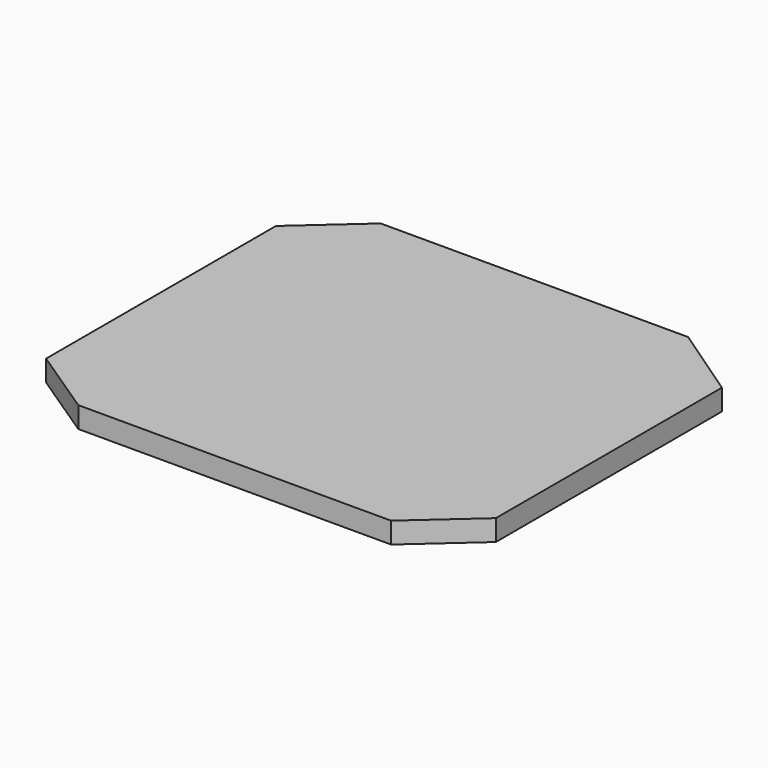
from build123d import *

# Parameters (mm, degrees)
F0_W     = 400
F0_H     = 350
F1_DEPTH = 19
F3_DEPTH = 19.001


with BuildPart() as f1:
    # F0 (on Top) → F1 (new body)
    with BuildSketch(Plane.XY):
        Rectangle(F0_W, F0_H)
    extrude(amount=F1_DEPTH)

    # F2 (on face) → F3 (cut, through all)
    with BuildSketch(Plane.XY.offset(19)):
        Polygon((-200, 175), (-200, 125.820249), (-144.6933, 175), align=None)
        Polygon((200, -125.820249), (144.693285, -175), (200, -175), align=None)
        Polygon((-137.878031, -175), (-200, -133.684024), (-200, -175), align=None)
        Polygon((200, 175), (133.159757, 175), (200, 129.490018), align=None)
    extrude(amount=-F3_DEPTH, mode=Mode.SUBTRACT)


solid = f1.part
